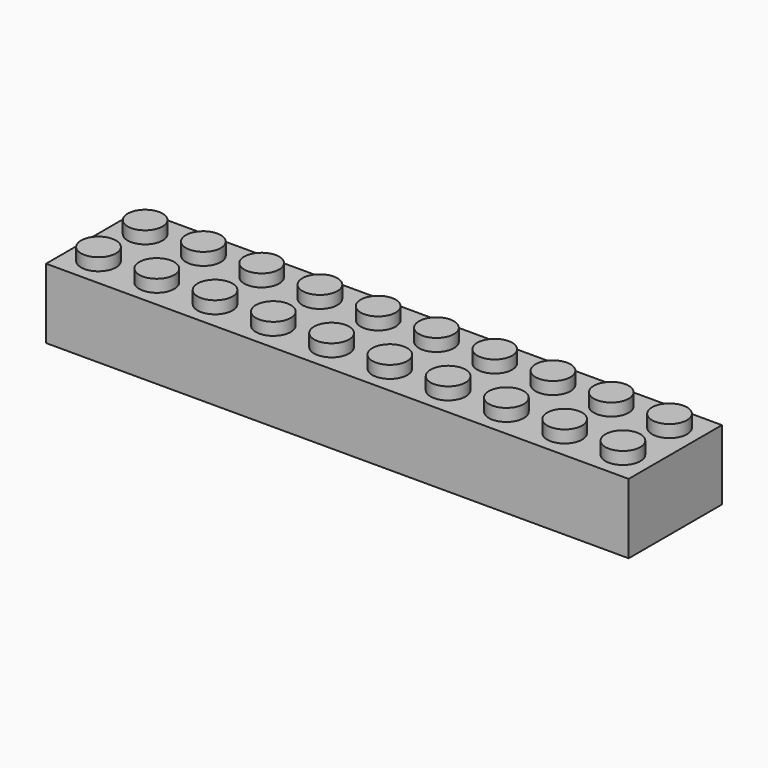
from build123d import *

# Parameters (mm, degrees)
F1_DEPTH  = 8
F3_W      = 8
F3_H      = 8
F3_R      = 2.4
F4_DEPTH  = 1.7
F5_R      = 2.4
F6_DEPTH  = 1.7
F15_W     = 30.2577763796
F15_H     = 33.55890885
F16_DEPTH = 48.006


with BuildPart() as f1:
    # F0 (on Front) → F1 (new body)
    with BuildSketch(Plane.XZ):
        Polygon((-2.4, 9.6), (-4, 9.6), (-4, 0), (4, 0), (4, 9.6), (2.4, 9.6), (2.4, 11.3), (-2.4, 11.3), align=None)
    extrude(amount=F1_DEPTH)

    # F3 (on plane+point) → F4 (cut, through all)
    with BuildSketch(Plane.XY.offset(11.3)):
        with Locations((0, -4)):
            Rectangle(F3_W, F3_H)
        with Locations((0, -4)):
            Circle(F3_R, mode=Mode.SUBTRACT)
    extrude(amount=-F4_DEPTH, mode=Mode.SUBTRACT)

    # F5 (on Top) → F6 (cut)
    with BuildSketch(Plane.XY):
        with Locations((0, -4)):
            Circle(F5_R)
    extrude(amount=F6_DEPTH, mode=Mode.SUBTRACT)

    # F8: F1 across plane


with BuildPart() as f1_1:
    add(f1.part)
    add(f1.part.mirror(Plane.YZ.offset(4)))

    # F9: F1 across plane


with BuildPart() as f1_2:
    add(f1_1.part)
    add(f1_1.part.mirror(Plane.XZ))

    # F11: F1 across plane


with BuildPart() as f1_3:
    add(f1_2.part)
    add(f1_2.part.mirror(Plane.YZ.offset(12)))

    # F12: F1 across face


with BuildPart() as f1_4:
    add(f1_3.part)
    add(f1_3.part.mirror(Plane(origin=(28, 0, 4.8), x_dir=(0, 1, 0), z_dir=(1, 0, 0))))

    # F13: F1 across face


with BuildPart() as f1_5:
    add(f1_4.part)
    add(f1_4.part.mirror(Plane(origin=(60, 0, 4.8), x_dir=(0, 1, 0), z_dir=(1, 0, 0))))

    # F15 (on offset) → F16 (cut)
    with BuildSketch(Plane.YZ.offset(124)):
        with Locations((0, 4.603235051)):
            Rectangle(F15_W, F15_H)
    extrude(amount=-F16_DEPTH, mode=Mode.SUBTRACT)


solid = f1_5.part
